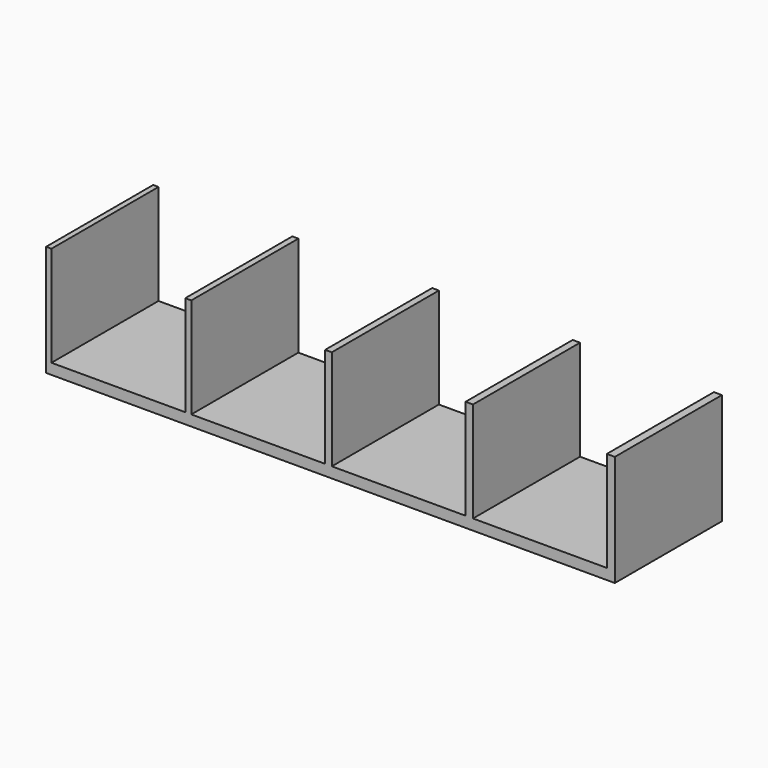
from build123d import *

# Parameters (mm, degrees)
F0_W     = 85
F0_H     = 20
F1_DEPTH = 1.6
F2_W     = 0.8
F2_H     = 20
F2_W_2   = 0.9
F2_W_3   = 1
F2_W_4   = 1.1
F2_W_5   = 1.2
F3_DEPTH = 15


with BuildPart() as f1:
    # F0 (on Top) → F1 (new body)
    with BuildSketch(Plane.XY):
        with Locations((42.5, -10)):
            Rectangle(F0_W, F0_H)
    extrude(amount=F1_DEPTH)

    # F2 (on face) → F3 (join)
    with BuildSketch(Plane.XY.offset(1.6)):
        with Locations((0.4, -10)):
            Rectangle(F2_W, F2_H)
        with Locations((21.25, -10)):
            Rectangle(F2_W_2, F2_H)
        with Locations((42.2, -10)):
            Rectangle(F2_W_3, F2_H)
        with Locations((63.25, -10)):
            Rectangle(F2_W_4, F2_H)
        with Locations((84.4, -10)):
            Rectangle(F2_W_5, F2_H)
    extrude(amount=F3_DEPTH)


solid = f1.part
